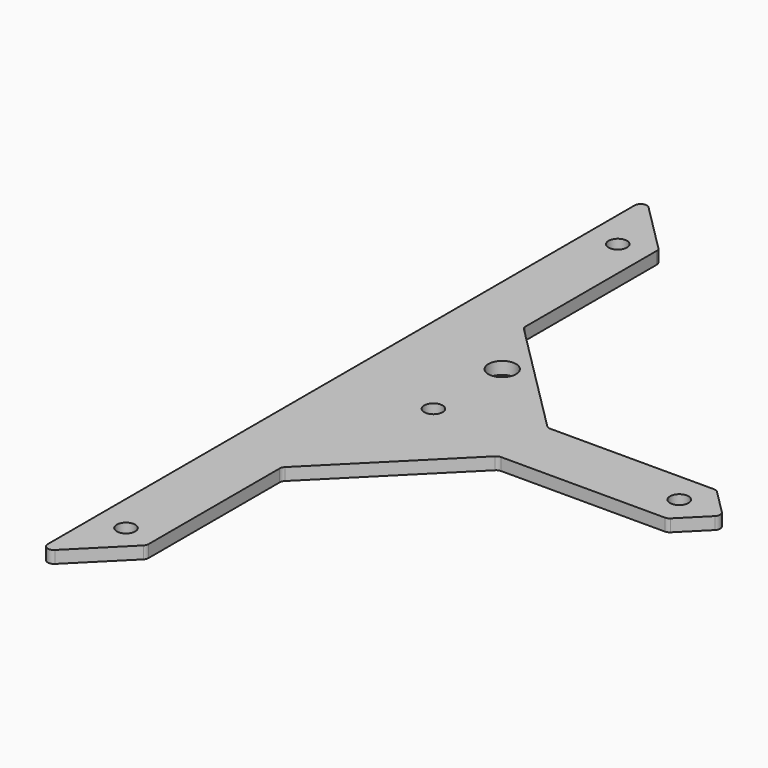
from build123d import *

# Parameters (mm, degrees)
SKETCH_R   = 3
SKETCH_R_2 = 4.5
PAD_DEPTH  = 4


with BuildPart() as part:
    # Sketch → Pad (new body)
    with BuildSketch(Plane.XY):
        with BuildLine():
            Line((0, 119.313708), (0, -119.313708))
            ThreePointArc((0, -119.313708), (1.234633, -121.161468), (3.414214, -120.727922))
            Line((3.414214, -120.727922), (19.414214, -104.727922))
            ThreePointArc((19.414214, -104.727922), (19.847759, -104.079075), (20, -103.313708))
            Line((20, -50), (20, -103.313708))
            ThreePointArc((20.585786, -48.585786), (20.152241, -49.234633), (20, -50))
            Line((20.585786, -48.585786), (58.585786, -10.585786))
            ThreePointArc((60, -10), (59.234633, -10.152241), (58.585786, -10.585786))
            Line((60, -10), (113.313708, -10))
            ThreePointArc((113.313708, -10), (114.079075, -9.847759), (114.727922, -9.414214))
            Line((114.727922, -9.414214), (122.727922, -1.414214))
            ThreePointArc((122.727922, -1.414214), (123.313708, 0), (122.727922, 1.414214))
            Line((114.727922, 9.414214), (122.727922, 1.414214))
            ThreePointArc((114.727922, 9.414214), (114.079075, 9.847759), (113.313708, 10))
            Line((113.313708, 10), (60, 10))
            ThreePointArc((58.585786, 10.585786), (59.234633, 10.152241), (60, 10))
            Line((58.585786, 10.585786), (20.585786, 48.585786))
            ThreePointArc((20, 50), (20.152241, 49.234633), (20.585786, 48.585786))
            Line((20, 50), (20, 103.313708))
            ThreePointArc((20, 103.313708), (19.847759, 104.079075), (19.414214, 104.727922))
            Line((3.414214, 120.727922), (19.414214, 104.727922))
            ThreePointArc((3.414214, 120.727922), (1.234633, 121.161468), (0, 119.313708))
        make_face()
        with Locations((10, -100)):
            Circle(SKETCH_R, mode=Mode.SUBTRACT)
        with Locations((10, 100)):
            Circle(SKETCH_R, mode=Mode.SUBTRACT)
        with Locations((110, 0)):
            Circle(SKETCH_R, mode=Mode.SUBTRACT)
        with Locations((30, 0)):
            Circle(SKETCH_R, mode=Mode.SUBTRACT)
        with Locations((30, 28)):
            Circle(SKETCH_R_2, mode=Mode.SUBTRACT)
    extrude(amount=PAD_DEPTH)


solid = part.part
